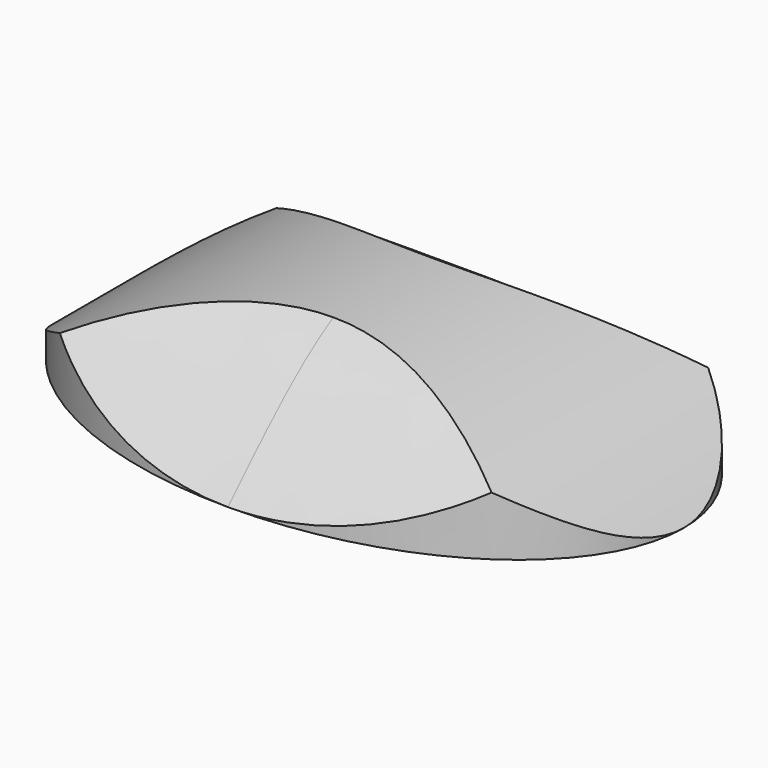
from build123d import *

# Parameters (mm, degrees)
F1_DEPTH = 25
F3_DEPTH = 58.0725
F5_DEPTH = 46.42432


with BuildPart() as f1:
    # F0 (on Top) → F1 (new body)
    with BuildSketch(Plane.XY):
        with BuildLine():
            add(Edge.make_bspline(
                [(52.6045225561, 0), (52.6045225561, 59.2353529497), (-26.302261278, 29.6176764749), (-105.2090451121, 0), (-26.302261278, -29.6176764749), (52.6045225561, -59.2353529497), (52.6045225561, 0)],
                knots=[0, 0, 0, 2.0943951024, 2.0943951024, 4.1887902048, 4.1887902048, 6.2831853072, 6.2831853072, 6.2831853072], degree=2, weights=[1, 0.5, 1, 0.5, 1, 0.5, 1]))
        make_face()
    extrude(amount=F1_DEPTH)

    # F2 (on Right) → F3 (intersect, symmetric)
    with BuildSketch(Plane.YZ):
        with BuildLine():
            add(Edge.make_bspline(
                [(34.1995469711, 0), (22.7996979807, 11.5956086665), (0, 34.7868259996), (-22.7996979807, 11.5956086665), (-34.1995469711, 0)],
                knots=[0, 0, 0, 0, 0.5, 1, 1, 1, 1], degree=3))
            Line((-34.1995469711, 0), (34.1995469711, 0))
        make_face()
    extrude(amount=F3_DEPTH, both=True, mode=Mode.INTERSECT)

    # F4 (on Front) → F5 (intersect, symmetric)
    with BuildSketch(Plane.XZ):
        with BuildLine():
            Line((-52.6045225561, 0), (0, 0))
            Line((0, 0), (52.6045225561, 0))
            ThreePointArc((52.6045225561, 0), (0, 19.9246587412), (-52.6045225561, 0))
        make_face()
    extrude(amount=F5_DEPTH, both=True, mode=Mode.INTERSECT)


solid = f1.part
